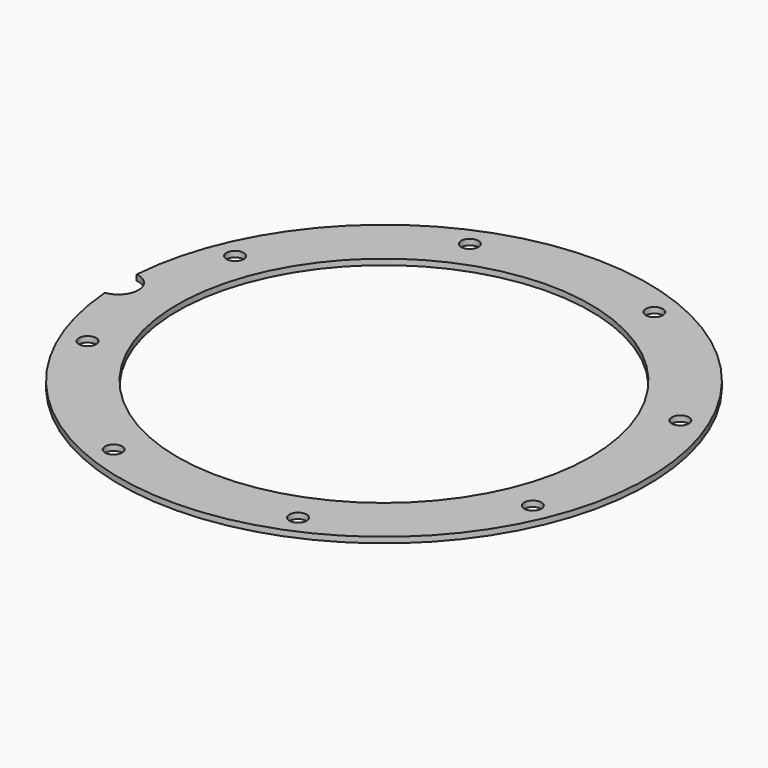
from build123d import *

# Parameters (mm, degrees)
BOX319_W                    = 6
BOX319_H                    = 8
BOX319_DEPTH                = 2
BOX319_PLACEMENT_ANGLE      = 45
BOX321_W                    = 6
BOX321_H                    = 8
BOX321_DEPTH                = 2
BOX312_W                    = 6
BOX312_H                    = 8
BOX312_DEPTH                = 2
BOX324_W                    = 6
BOX324_H                    = 8
BOX324_DEPTH                = 2
BOX324_PLACEMENT_ANGLE      = 135
BOX322_W                    = 6
BOX322_H                    = 8
BOX322_DEPTH                = 2
BOX326_W                    = 6
BOX326_H                    = 8
BOX326_DEPTH                = 2
BOX326_PLACEMENT_ANGLE      = 225
BOX315_W                    = 6
BOX315_H                    = 8
BOX315_DEPTH                = 2
BOX325_W                    = 6
BOX325_H                    = 8
BOX325_DEPTH                = 2
BOX325_PLACEMENT_ANGLE      = 45
COMPOUND700_PLACEMENT_ANGLE = 22.5
CYLINDER700_R               = 1.5
CYLINDER700_DEPTH           = 12
CYLINDER700_PLACEMENT_ANGLE = 45
CYLINDER708_R               = 1.5
CYLINDER708_DEPTH           = 12
CYLINDER706_R               = 1.5
CYLINDER706_DEPTH           = 12
CYLINDER706_PLACEMENT_ANGLE = 135
CYLINDER705_R               = 1.5
CYLINDER705_DEPTH           = 12
CYLINDER707_R               = 1.5
CYLINDER707_DEPTH           = 12
CYLINDER707_PLACEMENT_ANGLE = 225
CYLINDER704_R               = 1.5
CYLINDER704_DEPTH           = 12
CYLINDER699_R               = 1.5
CYLINDER699_DEPTH           = 12
CYLINDER699_PLACEMENT_ANGLE = 45
CYLINDER702_R               = 1.5
CYLINDER702_DEPTH           = 12
COMPOUND701_PLACEMENT_ANGLE = 22.5
CYLINDER697_R               = 3.5
CYLINDER697_DEPTH           = 20
TUBE076_R                   = 46
TUBE076_R_2                 = 36
TUBE076_DEPTH               = 1


with BuildPart() as krychle319:
    # Box319 → Box319 (new body)
    with BuildSketch(Plane.XY):
        with Locations((3, 4)):
            Rectangle(BOX319_W, BOX319_H)
    extrude(amount=BOX319_DEPTH)


with BuildPart() as krychle319_1:
    # Box319 placement: moved
    add(krychle319.part.moved(Location((30.405592, -34.648232, 33))).rotate(Axis((30.405592, -34.648232, 33), (0, 0, 1)), BOX319_PLACEMENT_ANGLE))


with BuildPart() as krychle321:
    # Box321 → Box321 (new body)
    with BuildSketch(Plane(origin=(46, -3, 33), x_dir=(0, 1, 0), z_dir=(0, 0, 1))):
        with Locations((3, 4)):
            Rectangle(BOX321_W, BOX321_H)
    extrude(amount=BOX321_DEPTH)


with BuildPart() as krychle312:
    # Box312 → Box312 (new body)
    with BuildSketch(Plane(origin=(-3, -46, 33), x_dir=(1, 0, 0), z_dir=(0, 0, 1))):
        with Locations((3, 4)):
            Rectangle(BOX312_W, BOX312_H)
    extrude(amount=BOX312_DEPTH)


with BuildPart() as krychle324:
    # Box324 → Box324 (new body)
    with BuildSketch(Plane.XY):
        with Locations((3, 4)):
            Rectangle(BOX324_W, BOX324_H)
    extrude(amount=BOX324_DEPTH)


with BuildPart() as krychle324_1:
    # Box324 placement: moved
    add(krychle324.part.moved(Location((34.648232, 30.405592, 33))).rotate(Axis((34.648232, 30.405592, 33), (0, 0, 1)), BOX324_PLACEMENT_ANGLE))


with BuildPart() as krychle322:
    # Box322 → Box322 (new body)
    with BuildSketch(Plane(origin=(3, 46, 33), x_dir=(-1, 0, 0), z_dir=(0, 0, 1))):
        with Locations((3, 4)):
            Rectangle(BOX322_W, BOX322_H)
    extrude(amount=BOX322_DEPTH)


with BuildPart() as krychle326:
    # Box326 → Box326 (new body)
    with BuildSketch(Plane.XY):
        with Locations((3, 4)):
            Rectangle(BOX326_W, BOX326_H)
    extrude(amount=BOX326_DEPTH)


with BuildPart() as krychle326_1:
    # Box326 placement: moved
    add(krychle326.part.moved(Location((-30.405592, 34.648232, 33))).rotate(Axis((-30.405592, 34.648232, 33), (0, 0, 1)), BOX326_PLACEMENT_ANGLE))


with BuildPart() as krychle315:
    # Box315 → Box315 (new body)
    with BuildSketch(Plane(origin=(-46, 3, 33), x_dir=(0, -1, 0), z_dir=(0, 0, 1))):
        with Locations((3, 4)):
            Rectangle(BOX315_W, BOX315_H)
    extrude(amount=BOX315_DEPTH)


with BuildPart() as compound700:
    # Box325 → Box325 (new body)
    with BuildSketch(Plane.XY):
        with Locations((3, 4)):
            Rectangle(BOX325_W, BOX325_H)
    extrude(amount=BOX325_DEPTH)


with BuildPart() as compound700_1:
    # Box325 placement: moved
    add(compound700.part.moved(Location((-34.648232, -30.405592, 33))).rotate(Axis((-34.648232, -30.405592, 33), (0, 0, -1)), BOX325_PLACEMENT_ANGLE))

    # Compound700: union Krychle319, Krychle321, Krychle312, Krychle324, Krychle322, Krychle326, Krychle315
    add(krychle319_1.part)
    add(krychle321.part)
    add(krychle312.part)
    add(krychle324_1.part)
    add(krychle322.part)
    add(krychle326_1.part)
    add(krychle315.part)


with BuildPart() as compound700_2:
    # Compound700 placement: moved
    add(compound700_1.part.rotate(Axis((0, 0, 0), (0, 0, 1)), COMPOUND700_PLACEMENT_ANGLE))


with BuildPart() as obj1:
    # Cylinder700 → Cylinder700 (new body)
    with BuildSketch(Plane.XY):
        Circle(CYLINDER700_R)
    extrude(amount=CYLINDER700_DEPTH)


with BuildPart() as obj1_1:
    # Cylinder700 placement: moved
    add(obj1.part.moved(Location((29.698485, -29.698485, 33.5))).rotate(Axis((29.698485, -29.698485, 33.5), (0, 0, 1)), CYLINDER700_PLACEMENT_ANGLE))


with BuildPart() as obj2:
    # Cylinder708 → Cylinder708 (new body)
    with BuildSketch(Plane(origin=(42, 0, 33.5), x_dir=(0, 1, 0), z_dir=(0, 0, 1))):
        Circle(CYLINDER708_R)
    extrude(amount=CYLINDER708_DEPTH)


with BuildPart() as obj3:
    # Cylinder706 → Cylinder706 (new body)
    with BuildSketch(Plane.XY):
        Circle(CYLINDER706_R)
    extrude(amount=CYLINDER706_DEPTH)


with BuildPart() as obj3_1:
    # Cylinder706 placement: moved
    add(obj3.part.moved(Location((29.698485, 29.698485, 33.5))).rotate(Axis((29.698485, 29.698485, 33.5), (0, 0, 1)), CYLINDER706_PLACEMENT_ANGLE))


with BuildPart() as obj4:
    # Cylinder705 → Cylinder705 (new body)
    with BuildSketch(Plane(origin=(0, 42, 33.5), x_dir=(-1, 0, 0), z_dir=(0, 0, 1))):
        Circle(CYLINDER705_R)
    extrude(amount=CYLINDER705_DEPTH)


with BuildPart() as obj5:
    # Cylinder707 → Cylinder707 (new body)
    with BuildSketch(Plane.XY):
        Circle(CYLINDER707_R)
    extrude(amount=CYLINDER707_DEPTH)


with BuildPart() as obj5_1:
    # Cylinder707 placement: moved
    add(obj5.part.moved(Location((-29.698485, 29.698485, 33.5))).rotate(Axis((-29.698485, 29.698485, 33.5), (0, 0, 1)), CYLINDER707_PLACEMENT_ANGLE))


with BuildPart() as obj6:
    # Cylinder704 → Cylinder704 (new body)
    with BuildSketch(Plane(origin=(-42, 0, 33.5), x_dir=(0, -1, 0), z_dir=(0, 0, 1))):
        Circle(CYLINDER704_R)
    extrude(amount=CYLINDER704_DEPTH)


with BuildPart() as obj7:
    # Cylinder699 → Cylinder699 (new body)
    with BuildSketch(Plane.XY):
        Circle(CYLINDER699_R)
    extrude(amount=CYLINDER699_DEPTH)


with BuildPart() as obj7_1:
    # Cylinder699 placement: moved
    add(obj7.part.moved(Location((-29.698485, -29.698485, 33.5))).rotate(Axis((-29.698485, -29.698485, 33.5), (0, 0, -1)), CYLINDER699_PLACEMENT_ANGLE))


with BuildPart() as compound701:
    # Cylinder702 → Cylinder702 (new body)
    with BuildSketch(Plane(origin=(0, -42, 33.5), x_dir=(1, 0, 0), z_dir=(0, 0, 1))):
        Circle(CYLINDER702_R)
    extrude(amount=CYLINDER702_DEPTH)

    # Compound701: union obj1, obj2, obj3, obj4, obj5, obj6, obj7
    add(obj1_1.part)
    add(obj2.part)
    add(obj3_1.part)
    add(obj4.part)
    add(obj5_1.part)
    add(obj6.part)
    add(obj7_1.part)


with BuildPart() as compound701_1:
    # Compound701 placement: moved
    add(compound701.part.rotate(Axis((0, 0, 0), (0, 0, 1)), COMPOUND701_PLACEMENT_ANGLE))


with BuildPart() as obj8:
    # Cylinder697 → Cylinder697 (new body)
    with BuildSketch(Plane(origin=(-46.3, 0, 29), x_dir=(1, 0, 0), z_dir=(0, 0, 1))):
        Circle(CYLINDER697_R)
    extrude(amount=CYLINDER697_DEPTH)


with BuildPart() as cut321:
    # Tube076 → Tube076 (new body)
    with BuildSketch(Plane.XY.offset(37)):
        Circle(TUBE076_R)
        Circle(TUBE076_R_2, mode=Mode.SUBTRACT)
    extrude(amount=TUBE076_DEPTH)

    # Cut323: cut obj8
    add(obj8.part, mode=Mode.SUBTRACT)

    # Cut330: cut Compound701
    add(compound701_1.part, mode=Mode.SUBTRACT)

    # Cut321: cut Compound700
    add(compound700_2.part, mode=Mode.SUBTRACT)


solid = cut321.part
